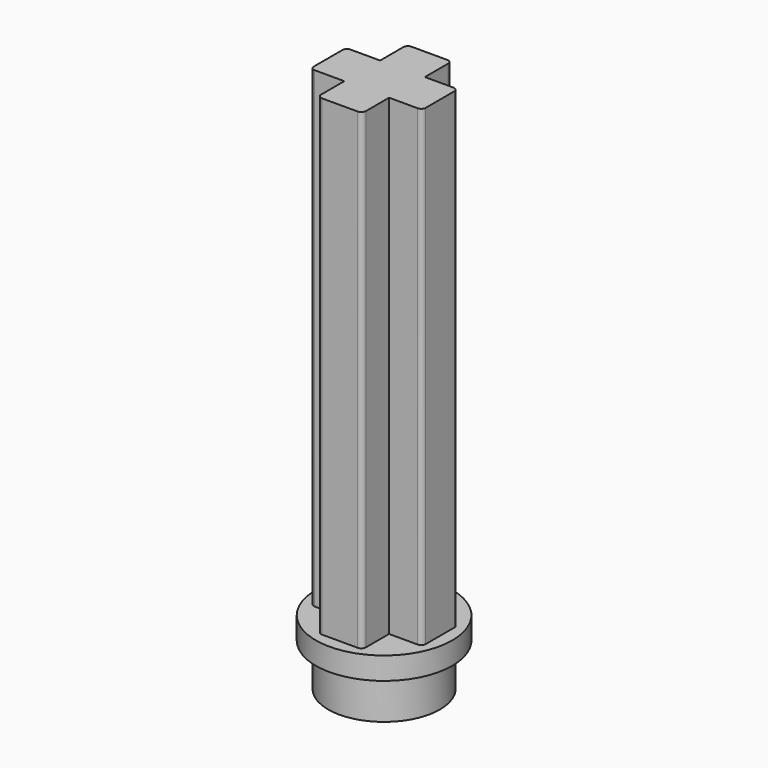
from build123d import *

# Parameters (mm, degrees)
F0_W     = 1.5233159065
F0_H     = 2
F0_W_2   = 2
F0_H_2   = 1.5
F0_W_3   = 1.4766840935
F1_DEPTH = 21.1
F2_R     = 3.0488114631
F3_DEPTH = 1
F4_R     = 2.4979644643
F5_DEPTH = 1.9
F6_R     = 0.2


with BuildPart() as f1:
    # F0 (on Top) → F1 (new body)
    with BuildSketch(Plane.XY):
        with Locations((-17.0561056584, 21.1294589788)):
            Rectangle(F0_W, F0_H)
        with Locations((-15.2944477051, 22.8794589788)):
            Rectangle(F0_W_2, F0_H_2)
        with Locations((-15.2944477051, 21.1294589788)):
            Rectangle(F0_W_2, F0_H)
        with Locations((-13.5561056584, 21.1294589788)):
            Rectangle(F0_W_3, F0_H)
        with Locations((-15.2944477051, 19.3794589788)):
            Rectangle(F0_W_2, F0_H_2)
    extrude(amount=F1_DEPTH)

    # F2 (on Top) → F3 (join)
    with BuildSketch(Plane.XY):
        with Locations((-15.3177636117, 21.1294589788)):
            Circle(F2_R)
    extrude(amount=-F3_DEPTH)

    # F4 (on face) → F5 (join)
    with BuildSketch(Plane(origin=(0, 0, -1), x_dir=(1, 0, 0), z_dir=(0, 0, -1))):
        with Locations((-15.3177636117, -21.1294589788)):
            Circle(F4_R)
    extrude(amount=F5_DEPTH)

    # F6
    f6_edges = [f1.edges().sort_by_distance(p)[0] for p in [
        (-12.817764, 20.129459, 10.55),
        (-12.817764, 22.129459, 10.55),
        (-14.294448, 18.629459, 10.55),
        (-16.294448, 18.629459, 10.55),
        (-17.817764, 20.129459, 10.55),
        (-17.817764, 22.129459, 10.55),
        (-16.294448, 23.629459, 10.55),
        (-14.294448, 23.629459, 10.55),
    ]]
    fillet(f6_edges, radius=F6_R)


solid = f1.part
